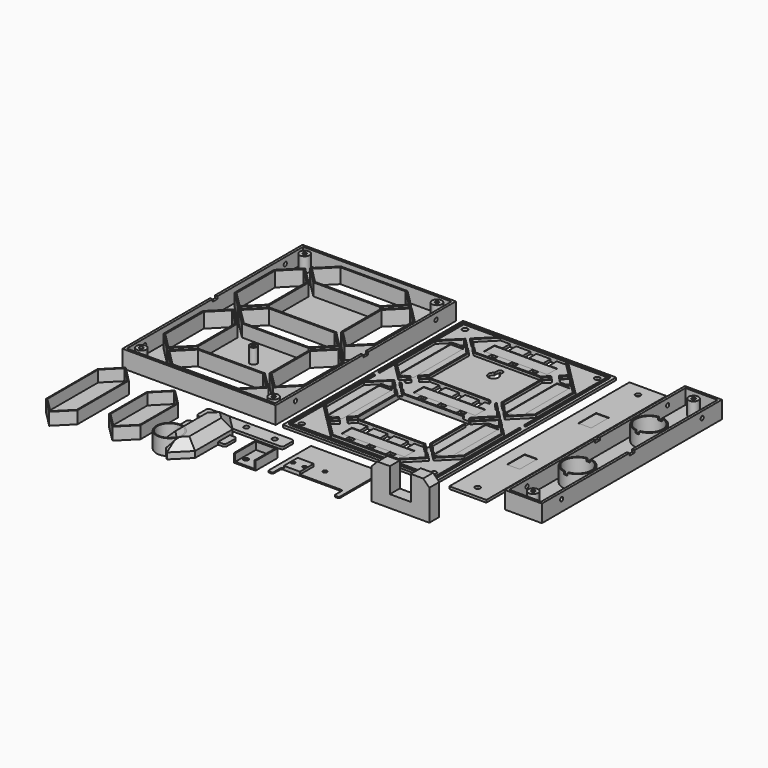
from build123d import *

# Parameters (mm, degrees)
SKETCH024_W             = 124.24
SKETCH024_H             = 182.49
PAD_DEPTH               = 2
PAD001_DEPTH            = 2
SKETCH032_R             = 1.6
POCKET009_DEPTH         = 2.001
SKETCH033_W             = 5
SKETCH033_H             = 5
POCKET010_DEPTH         = 2
SKETCH034_W             = 10.4
SKETCH034_H             = 51
SKETCH034_W_2           = 51
SKETCH034_H_2           = 10.4
SKETCH034_W_3           = 50
POCKET011_DEPTH         = 0.4
SKETCH035_R             = 6.2
POCKET012_DEPTH         = 2.001
SKETCH036_W             = 2
SKETCH036_H             = 5
SKETCH036_W_2           = 5
SKETCH036_H_2           = 28
POCKET013_DEPTH         = 2
PAD009_DEPTH            = 1
SKETCH042_W             = 5
SKETCH042_H             = 7.6
SKETCH042_H_2           = 7.599156565
SKETCH042_H_3           = 7.600006
POCKET015_DEPTH         = 2.001
SKETCH043_W             = 58.2426406871
SKETCH043_H             = 44.2426406871
POCKET016_DEPTH         = 2.001
FILLET003_R             = 1
SKETCH063_R             = 2.1
POCKET025_DEPTH         = 2.001
SKETCH026_W             = 124.24
SKETCH026_H             = 182.49
PAD003_DEPTH            = 2
PAD002_DEPTH            = 10
POCKET_DEPTH            = 2.001
POCKET001_DEPTH         = 2.001
POCKET002_DEPTH         = 2.001
POCKET003_DEPTH         = 2.001
POCKET004_DEPTH         = 2.001
POCKET005_DEPTH         = 2.001
POCKET006_DEPTH         = 2.001
SKETCH028_W             = 124.24
SKETCH028_H             = 182.49
SKETCH028_W_2           = 120.24
SKETCH028_H_2           = 178.49
PAD004_DEPTH            = 12
SKETCH029_R             = 4
SKETCH029_R_2           = 1.5
PAD005_DEPTH            = 12
SKETCH030_R             = 1.6
POCKET007_DEPTH         = 2
SKETCH031_R             = 1.6
POCKET008_DEPTH         = 2
SKETCH037_W             = 2
SKETCH037_H             = 5
POCKET014_DEPTH         = 2
SKETCH044_R             = 3
SKETCH044_R_2           = 1.5
PAD010_DEPTH            = 12
PAD007_DEPTH            = 12
CHAMFER_SIZE            = 7
THICKNESS_T             = -0.8
PAD008_DEPTH            = 10
THICKNESS001_T          = -0.8
BODY003_PLACEMENT_ANGLE = 180
COPYSKETCH045_R         = 1.6
PAD011_DEPTH            = 1
FILLET_R                = 1
FILLET001_R             = 1
FILLET002_R             = 1
SKETCH065_W             = 13
SKETCH065_H             = 14
SKETCH065_R             = 1.5
PAD021_DEPTH            = 2
SKETCH068_R             = 1.5
POCKET027_DEPTH         = 3.001
SKETCH069_W             = 5
SKETCH069_H             = 3
POCKET028_DEPTH         = 1.001
SKETCH046_W             = 30
SKETCH046_H             = 182.49
PAD013_DEPTH            = 2
SKETCH047_W             = 10.4
SKETCH047_H             = 18
POCKET017_DEPTH         = 0.4
SKETCH048_R             = 1.6
POCKET018_DEPTH         = 2.001
SKETCH064_R             = 2.1
POCKET026_DEPTH         = 2.001
SKETCH049_W             = 30
SKETCH049_H             = 182.49
PAD014_DEPTH            = 2
SKETCH050_W             = 10.4
SKETCH050_H             = 18
POCKET019_DEPTH         = 0.4
SKETCH051_W             = 30
SKETCH051_H             = 182.49
SKETCH051_W_2           = 26
SKETCH051_H_2           = 178.49
PAD015_DEPTH            = 12
SKETCH052_R             = 4
SKETCH052_R_2           = 1.5
SKETCH052_R_3           = 12
SKETCH052_R_4           = 11
PAD016_DEPTH            = 12
SKETCH054_R             = 1.6
POCKET021_DEPTH         = 30.001
SKETCH055_W             = 30
SKETCH055_H             = 5
POCKET022_DEPTH         = 2
SKETCH056_W             = 3
SKETCH056_H             = 100
POCKET023_DEPTH         = 2
SKETCH057_R             = 11
POCKET024_DEPTH         = 2.001
PAD017_DEPTH            = 10
THICKNESS002_T          = -0.8
BODY008_PLACEMENT_ANGLE = 180
SKETCH060_R             = 9.9
PAD018_DEPTH            = 12
THICKNESS003_T          = 0.8
SKETCH061_W             = 70
SKETCH061_H             = 12
SKETCH061_R             = 2
PAD019_DEPTH            = 2
FILLET004_R             = 2
SKETCH062_W             = 39.42
SKETCH062_H             = 12
SKETCH062_R             = 2
PAD020_DEPTH            = 2
FILLET005_R             = 2
SKETCH070_W             = 15.5
SKETCH070_H             = 20
PAD023_DEPTH            = 6
THICKNESS004_T          = 1
SKETCH071_R             = 1.9
POCKET029_DEPTH         = 1.001
SKETCH072_W             = 15.5
SKETCH072_H             = 6.004692
POCKET030_DEPTH         = 5
PAD024_DEPTH            = 10
CHAMFER001_SIZE         = 5


with BuildPart() as bottom:
    # Sketch024 → Pad (new body)
    with BuildSketch(Plane.XY):
        with Locations((62.12, 91.245)):
            Rectangle(SKETCH024_W, SKETCH024_H)
    extrude(amount=PAD_DEPTH)

    # Sketch025 (on Face6 of Pad) → Pad001 (join)
    with BuildSketch(Plane.XY.offset(2)):
        Polygon((5, 35.1213203436), (19, 21.1213203436), (33, 35.1213203436), (33, 75.1213203436), (19, 89.1213203436), (5, 75.1213203436), align=None)
        Polygon((6.2, 74.6242640687), (19, 87.4242640687), (31.8, 74.6242640687), (31.8, 35.6183766184), (19, 22.8183766184), (6.2, 35.6183766184), align=None, mode=Mode.SUBTRACT)
        Polygon((21.1213203436, 19), (35.1213203436, 5), (89.1213203436, 5), (103.1213203436, 19), (89.1213203436, 33), (35.1213203436, 33), align=None)
        Polygon((88.6242640687, 6.2), (101.4242640687, 19), (88.6242640687, 31.8), (35.6183766184, 31.8), (22.8183766184, 19), (35.6183766184, 6.2), align=None, mode=Mode.SUBTRACT)
        Polygon((19, 161.3639610307), (5, 147.3639610307), (5, 107.3639610307), (19, 93.3639610307), (33, 107.3639610307), (33, 147.3639610307), align=None)
        Polygon((19, 159.6669047558), (6.2, 146.8669047558), (6.2, 107.8610173055), (19, 95.0610173055), (31.8, 107.8610173055), (31.8, 146.8669047558), align=None, mode=Mode.SUBTRACT)
        Polygon((35.1213203436, 105.2426406871), (21.1213203436, 91.2426406871), (35.1213203436, 77.2426406871), (89.1213203436, 77.2426406871), (103.1213203436, 91.2426406871), (89.1213203436, 105.2426406871), align=None)
        Polygon((88.6283766184, 78.4426406871), (101.4283766184, 91.2426406871), (88.6283766184, 104.0426406871), (35.6183766184, 104.0426406871), (22.8183766184, 91.2426406871), (35.6183766184, 78.4426406871), align=None, mode=Mode.SUBTRACT)
        Polygon((35.1213203436, 149.4852813742), (89.1213203436, 149.4852813742), (103.1213203436, 163.4852813742), (89.1213203436, 177.4852813742), (35.1213203436, 177.4852813742), (21.1213203436, 163.4852813742), align=None)
        Polygon((88.6283766184, 150.6852813742), (101.4283766184, 163.4852813742), (88.6283766184, 176.2852813742), (35.6183766184, 176.2852813742), (22.8183766184, 163.4852813742), (35.6183766184, 150.6852813742), align=None, mode=Mode.SUBTRACT)
        Polygon((105.2426406871, 161.3639610307), (91.2426406871, 147.3639610307), (91.2426406871, 107.3639610307), (105.2426406871, 93.3639610307), (119.2426406871, 107.3639610307), (119.2426406871, 147.3639610307), align=None)
        Polygon((92.4426406871, 107.8569047558), (105.2426406871, 95.0569047558), (118.0426406871, 107.8569047558), (118.0426406871, 146.8669047558), (105.2426406871, 159.6669047558), (92.4426406871, 146.8669047558), align=None, mode=Mode.SUBTRACT)
        Polygon((105.2426406871, 89.1213203436), (91.2426406871, 75.1213203436), (91.2426406871, 35.1213203436), (105.2426406871, 21.1213203436), (119.2426406871, 35.1213203436), (119.2426406871, 75.1213203436), align=None)
        Polygon((92.4426406871, 35.6142640687), (105.2426406871, 22.8142640687), (118.0426406871, 35.6142640687), (118.0426406871, 74.6242640687), (105.2426406871, 87.4242640687), (92.4426406871, 74.6242640687), align=None, mode=Mode.SUBTRACT)
    extrude(amount=PAD001_DEPTH)

    # Sketch032 (on Face5 of Pad001) → Pocket009 (cut, through all)
    with BuildSketch(Plane.XY.offset(2)):
        with Locations((8.5162285705, 173.9737714295)):
            Circle(SKETCH032_R)
        with Locations((115.7311599917, 173.9811599917)):
            Circle(SKETCH032_R)
        with Locations((8.5088400083, 8.5088400083)):
            Circle(SKETCH032_R)
        with Locations((115.7311599917, 8.5088400083)):
            Circle(SKETCH032_R)
        with BuildLine():
            Line((60.02, 142.4900013773), (60.02, 139.4988113723))
            ThreePointArc((60.02, 139.4988113723), (62.1199992157, 131.877448), (64.2200013473, 139.4988105689))
            Line((64.22, 142.490005), (64.2200013473, 139.4988105689))
            ThreePointArc((64.22, 142.490005), (62.1199981887, 144.59), (60.02, 142.4900013773))
        make_face()
    extrude(amount=-POCKET009_DEPTH, mode=Mode.SUBTRACT)

    # Sketch033 (on Face63 of Pocket009) → Pocket010 (cut)
    with BuildSketch(Plane.XY.offset(4)):
        Polygon((93.2606096654, 99.4104076401), (96.7961435714, 95.8748737342), (101.0387842585, 100.1175144213), (97.5032503526, 103.6530483272), align=None)
        Polygon((109.8748737342, 82.7920310217), (113.4104076401, 79.2564971157), (117.6530483272, 83.4991378029), (114.1175144213, 87.0346717088), align=None)
        Polygon((23.633383912, 82.7931811379), (27.166616088, 79.2553469995), (31.412017054, 83.4952256108), (27.878784878, 87.0330597491), align=None)
        Polygon((23.632233047, 155.0346717088), (27.167766953, 151.4991378029), (31.4104076401, 155.74177849), (27.8748737342, 159.2773123959), align=None)
        Polygon((93.2564971157, 27.167766953), (96.7920310217, 23.632233047), (101.0346717088, 27.8748737342), (97.4991378029, 31.4104076401), align=None)
        Polygon((23.2079689783, 27.8748737342), (27.4506096654, 23.632233047), (30.9861435714, 27.167766953), (26.7435028843, 31.4104076401), align=None)
        Polygon((23.2079689783, 100.1175144213), (27.4506096654, 95.8748737342), (30.9861435714, 99.4104076401), (26.7435028843, 103.6530483272), align=None)
        Polygon((92.832233047, 155.74177849), (96.367766953, 159.2773123959), (100.6104076401, 155.0346717088), (97.0748737342, 151.4991378029), align=None)
        with Locations((22.4542196781, 91.3414798155)):
            Rectangle(SKETCH033_W, SKETCH033_H)
    extrude(amount=-POCKET010_DEPTH, mode=Mode.SUBTRACT)

    # Sketch034 (on Face165 of Pocket010) → Pocket011 (cut)
    with BuildSketch(Plane.XY.offset(2)):
        with Locations((105.2426406871, 127.3619047558)):
            Rectangle(SKETCH034_W, SKETCH034_H)
        with Locations((105.2426406871, 55.1192640687)):
            Rectangle(SKETCH034_W, SKETCH034_H)
        with Locations((19, 55.1213203436)):
            Rectangle(SKETCH034_W, SKETCH034_H)
        with Locations((19, 127.3639610307)):
            Rectangle(SKETCH034_W, SKETCH034_H)
        with Locations((62.1233766184, 163.4852813742)):
            Rectangle(SKETCH034_W_2, SKETCH034_H_2)
        with Locations((62.1233766184, 91.2426406871)):
            Rectangle(SKETCH034_W_3, SKETCH034_H_2)
        with Locations((62.1213203436, 19)):
            Rectangle(SKETCH034_W_2, SKETCH034_H_2)
    extrude(amount=-POCKET011_DEPTH, mode=Mode.SUBTRACT)

    # Sketch035 (on Face5 of Pocket011) → Pocket012 (cut, through all)
    with BuildSketch(Plane.XY.offset(2)):
        with Locations((62.12, 68.49)):
            Circle(SKETCH035_R)
    extrude(amount=-POCKET012_DEPTH, mode=Mode.SUBTRACT)

    # Sketch036 (on Face91 of Pocket012) → Pocket013 (cut)
    with BuildSketch(Plane.XY.offset(4)):
        with Locations((91.4426406871, 72.1242640687)):
            Rectangle(SKETCH036_W, SKETCH036_H)
        with Locations((86.6213203436, 91.2426406871)):
            Rectangle(SKETCH036_W_2, SKETCH036_H_2)
    extrude(amount=-POCKET013_DEPTH, mode=Mode.SUBTRACT)

    # Sketch041 (on Face5 of Pocket013) → Pad009 (join)
    with BuildSketch(Plane.XY.offset(2)):
        Polygon((2.5, 179.99), (121.74, 179.99), (121.74, 93.8414798155), (120.74, 93.8414798155), (120.74, 178.99), (3.5, 178.99), (3.5, 93.8414798155), (2.5, 93.8414798155), align=None)
        Polygon((121.74, 2.5), (2.5, 2.5), (2.5, 88.8414798155), (3.5, 88.8414798155), (3.5, 3.5), (120.74, 3.5), (120.74, 88.8414798155), (121.74, 88.8414798155), align=None)
    extrude(amount=PAD009_DEPTH)

    # Sketch042 (on Face187 of Pad009) → Pocket015 (cut, through all)
    with BuildSketch(Plane.XY.offset(2)):
        Polygon((19, 159.6669047558), (23.632233047, 155.0346717088), (14.367766953, 155.0346717088), align=None)
        Polygon((23.6315494168, 82.7927146519), (14.3684505832, 82.7927146519), (19, 87.4242640687), align=None)
        Polygon((109.8748737342, 82.7920310217), (100.6104076401, 82.7920310217), (105.2426406871, 87.4242640687), align=None)
        Polygon((109.8748737341, 155.0346717088), (100.6104076401, 155.0346717088), (105.2426406871, 159.6669047558), align=None)
        with Locations((45.6233766184, 172.4852813742)):
            Rectangle(SKETCH042_W, SKETCH042_H)
        with Locations((78.6233766184, 172.4852813742)):
            Rectangle(SKETCH042_W, SKETCH042_H)
        with Locations((62.1233766184, 172.4852813742)):
            Rectangle(SKETCH042_W, SKETCH042_H)
        with Locations((78.1233766184, 100.2426406871)):
            Rectangle(SKETCH042_W, SKETCH042_H)
        with Locations((62.1233766184, 100.2426406871)):
            Rectangle(SKETCH042_W, SKETCH042_H)
        with Locations((46.1233766184, 100.2426406871)):
            Rectangle(SKETCH042_W, SKETCH042_H)
        with Locations((78.6213203436, 28)):
            Rectangle(SKETCH042_W, SKETCH042_H)
        with Locations((62.1213203436, 28)):
            Rectangle(SKETCH042_W, SKETCH042_H)
        with Locations((45.6213203436, 28)):
            Rectangle(SKETCH042_W, SKETCH042_H)
        with Locations((78.6213203436, 10.0004217175)):
            Rectangle(SKETCH042_W, SKETCH042_H_2)
        with Locations((62.1213203436, 10.0004217175)):
            Rectangle(SKETCH042_W, SKETCH042_H_2)
        with Locations((45.6213203436, 10.0004217175)):
            Rectangle(SKETCH042_W, SKETCH042_H_2)
        with Locations((45.6233746184, 154.4852873742)):
            Rectangle(SKETCH042_W, SKETCH042_H)
        with Locations((78.6233746184, 154.4852873742)):
            Rectangle(SKETCH042_W, SKETCH042_H)
        with Locations((62.1233766184, 154.4852843742)):
            Rectangle(SKETCH042_W, SKETCH042_H_3)
        with Locations((78.1233746184, 82.2426426871)):
            Rectangle(SKETCH042_W, SKETCH042_H)
        with Locations((62.1233766184, 82.2426406871)):
            Rectangle(SKETCH042_W, SKETCH042_H)
        with Locations((46.1233746184, 82.2426426871)):
            Rectangle(SKETCH042_W, SKETCH042_H)
        Polygon((19, 95.0610173055), (23.632233047, 99.6932503526), (14.367766953, 99.6932503526), align=None)
        Polygon((109.8748737341, 99.6932503526), (100.6104076401, 99.6932503526), (105.2426406871, 95.0610173055), align=None)
        Polygon((23.6315494168, 27.4499260352), (14.3684505832, 27.4499260352), (19, 22.8183766184), align=None)
        Polygon((109.8748737342, 27.4506096654), (100.6104076401, 27.4506096654), (105.2426406871, 22.8183766184), align=None)
    extrude(amount=-POCKET015_DEPTH, mode=Mode.SUBTRACT)

    # Sketch043 → Pocket016 (cut, through all)
    with BuildSketch(Plane.XY.offset(2)):
        with Locations((62.1213203436, 55.1213203436)):
            Rectangle(SKETCH043_W, SKETCH043_H)
    extrude(amount=-POCKET016_DEPTH, mode=Mode.SUBTRACT)

    # Fillet003
    fillet003_edges = [bottom.edges().sort_by_distance(p)[0] for p in [
        (121.74, 2.5, 2.5),
        (2.5, 2.5, 2.5),
        (2.5, 179.99, 2.5),
        (121.74, 179.99, 2.5),
    ]]
    fillet(fillet003_edges, radius=FILLET003_R)

    # Sketch063 (on Face1 of Fillet003) → Pocket025 (cut, through all)
    with BuildSketch(Plane.XY.offset(2)):
        with Locations((8.5162285705, 173.9737714295)):
            Circle(SKETCH063_R)
        with Locations((115.7311599917, 173.9811599917)):
            Circle(SKETCH063_R)
        with Locations((115.7311599917, 8.5088400083)):
            Circle(SKETCH063_R)
        with Locations((8.5088400083, 8.5088400083)):
            Circle(SKETCH063_R)
    extrude(amount=-POCKET025_DEPTH, mode=Mode.SUBTRACT)


with BuildPart() as top:
    # Sketch026 → Pad003 (new body)
    with BuildSketch(Plane.XY):
        with Locations((62.12, 91.245)):
            Rectangle(SKETCH026_W, SKETCH026_H)
    extrude(amount=PAD003_DEPTH)

    # Sketch027 (on Face6 of Pad003) → Pad002 (join)
    with BuildSketch(Plane.XY.offset(2)):
        Polygon((5, 35.1213203436), (19, 21.1213203436), (33, 35.1213203436), (33, 75.1213203436), (19, 89.1213203436), (5, 75.1213203436), align=None)
        Polygon((6.2, 74.6242640687), (19, 87.4242640687), (31.8, 74.6242640687), (31.8, 35.6183766184), (19, 22.8183766184), (6.2, 35.6183766184), align=None, mode=Mode.SUBTRACT)
        Polygon((21.1213203436, 19), (35.1213203436, 5), (89.1213203436, 5), (103.1213203436, 19), (89.1213203436, 33), (35.1213203436, 33), align=None)
        Polygon((88.6242640687, 6.2), (101.4242640687, 19), (88.6242640687, 31.8), (35.6183766184, 31.8), (22.8183766184, 19), (35.6183766184, 6.2), align=None, mode=Mode.SUBTRACT)
        Polygon((19, 161.3639610307), (5, 147.3639610307), (5, 107.3639610307), (19, 93.3639610307), (33, 107.3639610307), (33, 147.3639610307), align=None)
        Polygon((19, 159.6669047558), (6.2, 146.8669047558), (6.2, 107.8610173055), (19, 95.0610173055), (31.8, 107.8610173055), (31.8, 146.8669047558), align=None, mode=Mode.SUBTRACT)
        Polygon((35.1213203436, 105.2426406871), (21.1213203436, 91.2426406871), (35.1213203436, 77.2426406871), (89.1213203436, 77.2426406871), (103.1213203436, 91.2426406871), (89.1213203436, 105.2426406871), align=None)
        Polygon((88.6283766184, 78.4426406871), (101.4283766184, 91.2426406871), (88.6283766184, 104.0426406871), (35.6183766184, 104.0426406871), (22.8183766184, 91.2426406871), (35.6183766184, 78.4426406871), align=None, mode=Mode.SUBTRACT)
        Polygon((35.1213203436, 149.4852813742), (89.1213203436, 149.4852813742), (103.1213203436, 163.4852813742), (89.1213203436, 177.4852813742), (35.1213203436, 177.4852813742), (21.1213203436, 163.4852813742), align=None)
        Polygon((88.6283766184, 150.6852813742), (101.4283766184, 163.4852813742), (88.6283766184, 176.2852813742), (35.6183766184, 176.2852813742), (22.8183766184, 163.4852813742), (35.6183766184, 150.6852813742), align=None, mode=Mode.SUBTRACT)
        Polygon((105.2426406871, 161.3639610307), (91.2426406871, 147.3639610307), (91.2426406871, 107.3639610307), (105.2426406871, 93.3639610307), (119.2426406871, 107.3639610307), (119.2426406871, 147.3639610307), align=None)
        Polygon((92.4426406871, 107.8569047558), (105.2426406871, 95.0569047558), (118.0426406871, 107.8569047558), (118.0426406871, 146.8669047558), (105.2426406871, 159.6669047558), (92.4426406871, 146.8669047558), align=None, mode=Mode.SUBTRACT)
        Polygon((105.2426406871, 89.1213203436), (91.2426406871, 75.1213203436), (91.2426406871, 35.1213203436), (105.2426406871, 21.1213203436), (119.2426406871, 35.1213203436), (119.2426406871, 75.1213203436), align=None)
        Polygon((92.4426406871, 35.6142640687), (105.2426406871, 22.8142640687), (118.0426406871, 35.6142640687), (118.0426406871, 74.6242640687), (105.2426406871, 87.4242640687), (92.4426406871, 74.6242640687), align=None, mode=Mode.SUBTRACT)
    extrude(amount=PAD002_DEPTH)

    # Pad002 Face102 → Pocket (cut, through all)
    with BuildSketch(Plane(origin=(62.1213203436, 19, 2), x_dir=(0, 1, 0), z_dir=(0, 0, 1))):
        Polygon((0, 39.3029437252), (-12.8, 26.5029437252), (-12.8, -26.5029437252), (0, -39.3029437252), (12.8, -26.5029437252), (12.8, 26.5029437252), align=None)
    extrude(amount=-POCKET_DEPTH, mode=Mode.SUBTRACT)

    # Pocket Face109 → Pocket001 (cut, through all)
    with BuildSketch(Plane(origin=(19, 55.1213203436, 2), x_dir=(0, 1, 0), z_dir=(0, 0, 1))):
        Polygon((32.3029437252, 0), (19.5029437252, 12.8), (-19.5029437252, 12.8), (-32.3029437252, 0), (-19.5029437252, -12.8), (19.5029437252, -12.8), align=None)
    extrude(amount=-POCKET001_DEPTH, mode=Mode.SUBTRACT)

    # Pocket001 Face111 → Pocket002 (cut, through all)
    with BuildSketch(Plane(origin=(62.1233766184, 91.2426406871, 2), x_dir=(0, 1, 0), z_dir=(0, 0, 1))):
        Polygon((0, 39.305), (-12.8, 26.505), (-12.8, -26.505), (0, -39.305), (12.8, -26.505), (12.8, 26.505), align=None)
    extrude(amount=-POCKET002_DEPTH, mode=Mode.SUBTRACT)

    # Pocket002 Face119 → Pocket003 (cut, through all)
    with BuildSketch(Plane(origin=(105.2426406871, 55.1192640687, 2), x_dir=(0, 1, 0), z_dir=(0, 0, 1))):
        Polygon((-19.505, -12.8), (19.505, -12.8), (32.305, 0), (19.505, 12.8), (-19.505, 12.8), (-32.305, 0), align=None)
    extrude(amount=-POCKET003_DEPTH, mode=Mode.SUBTRACT)

    # Pocket003 Face122 → Pocket004 (cut, through all)
    with BuildSketch(Plane(origin=(105.2426406871, 127.3619047558, 2), x_dir=(0, 1, 0), z_dir=(0, 0, 1))):
        Polygon((-19.505, -12.8), (19.505, -12.8), (32.305, 0), (19.505, 12.8), (-19.505, 12.8), (-32.305, 0), align=None)
    extrude(amount=-POCKET004_DEPTH, mode=Mode.SUBTRACT)

    # Pocket004 Face129 → Pocket005 (cut, through all)
    with BuildSketch(Plane(origin=(62.1233766184, 163.4852813742, 2), x_dir=(0, 1, 0), z_dir=(0, 0, 1))):
        Polygon((0, 39.305), (-12.8, 26.505), (-12.8, -26.505), (0, -39.305), (12.8, -26.505), (12.8, 26.505), align=None)
    extrude(amount=-POCKET005_DEPTH, mode=Mode.SUBTRACT)

    # Pocket005 Face134 → Pocket006 (cut, through all)
    with BuildSketch(Plane(origin=(19, 127.3639610307, 2), x_dir=(0, 1, 0), z_dir=(0, 0, 1))):
        Polygon((-19.5029437252, -12.8), (19.5029437252, -12.8), (32.3029437252, 0), (19.5029437252, 12.8), (-19.5029437252, 12.8), (-32.3029437252, 0), align=None)
    extrude(amount=-POCKET006_DEPTH, mode=Mode.SUBTRACT)

    # Sketch028 (on Face5 of Pocket006) → Pad004 (join)
    with BuildSketch(Plane.XY.offset(2)):
        with Locations((62.12, 91.245)):
            Rectangle(SKETCH028_W, SKETCH028_H)
        with Locations((62.12, 91.245)):
            Rectangle(SKETCH028_W_2, SKETCH028_H_2, mode=Mode.SUBTRACT)
    extrude(amount=PAD004_DEPTH)

    # Sketch029 (on Face106 of Pad004) → Pad005 (join)
    with BuildSketch(Plane.XY.offset(2)):
        with Locations((8.4852813742, 174.0047186258)):
            Circle(SKETCH029_R)
        with Locations((8.4852813742, 174.0047186258)):
            Circle(SKETCH029_R_2, mode=Mode.SUBTRACT)
        with Locations((115.7547186258, 174.0047186258)):
            Circle(SKETCH029_R)
        with Locations((115.7547186258, 174.0047186258)):
            Circle(SKETCH029_R_2, mode=Mode.SUBTRACT)
        with Locations((8.4852813742, 8.4852813742)):
            Circle(SKETCH029_R)
        with Locations((8.4852813742, 8.4852813742)):
            Circle(SKETCH029_R_2, mode=Mode.SUBTRACT)
        with Locations((115.7547186258, 8.4852813742)):
            Circle(SKETCH029_R)
        with Locations((115.7547186258, 8.4852813742)):
            Circle(SKETCH029_R_2, mode=Mode.SUBTRACT)
    extrude(amount=PAD005_DEPTH)

    # Sketch030 (on Face8 of Pad005) → Pocket007 (cut)
    with BuildSketch(Plane.YZ.offset(124.24)):
        with Locations((20, 9)):
            Circle(SKETCH030_R)
        with Locations((162.49, 9)):
            Circle(SKETCH030_R)
    extrude(amount=-POCKET007_DEPTH, mode=Mode.SUBTRACT)

    # Sketch031 (on Face7 of Pocket007) → Pocket008 (cut)
    with BuildSketch(Plane(origin=(0, 0, 0), x_dir=(0, -1, 0), z_dir=(-1, 0, 0))):
        with Locations((-162.49, 9)):
            Circle(SKETCH031_R)
        with Locations((-20, 9)):
            Circle(SKETCH031_R)
    extrude(amount=-POCKET008_DEPTH, mode=Mode.SUBTRACT)

    # Sketch037 (on Face51 of Pocket008) → Pocket014 (cut)
    with BuildSketch(Plane.XY.offset(14)):
        with Locations((123.24, 91.245)):
            Rectangle(SKETCH037_W, SKETCH037_H)
        with Locations((1, 91.245)):
            Rectangle(SKETCH037_W, SKETCH037_H)
    extrude(amount=-POCKET014_DEPTH, mode=Mode.SUBTRACT)

    # Sketch044 (on Face117 of Pocket014) → Pad010 (join)
    with BuildSketch(Plane.XY.offset(2)):
        with Locations((62.1213203436, 55.1213203436)):
            Circle(SKETCH044_R)
        with Locations((62.1213203436, 55.1213203436)):
            Circle(SKETCH044_R_2, mode=Mode.SUBTRACT)
    extrude(amount=PAD010_DEPTH)


with BuildPart() as top_1:
    # Body001 placement: moved
    add(top.part.moved(Location((-130, 0, 0))))


with BuildPart() as obj1:
    # Sketch039 → Pad007 (new body)
    with BuildSketch(Plane.XY):
        Polygon((0, 0), (12.7, 12.7), (12.7, 50.8), (0, 63.5), (-12.7, 50.8), (-12.7, 12.7), align=None)
    extrude(amount=PAD007_DEPTH)

    # Chamfer
    chamfer_edges = [obj1.edges().sort_by_distance(p)[0] for p in [
        (12.7, 31.75, 12),
        (6.35, 6.35, 12),
        (-6.35, 6.35, 12),
        (-12.7, 31.75, 12),
        (-6.35, 57.15, 12),
        (6.35, 57.15, 12),
    ]]
    chamfer(chamfer_edges, length=CHAMFER_SIZE)

    # Thickness
    thickness_openings = [obj1.faces().sort_by_distance(p)[0] for p in [
        (0, 31.75, 0),
    ]]
    offset(amount=THICKNESS_T, openings=thickness_openings)


with BuildPart() as obj1_1:
    # Body002 placement: moved
    add(obj1.part.moved(Location((-30, -80, 0))))


with BuildPart() as segment_vert_flat:
    # Sketch040 → Pad008 (new body)
    with BuildSketch(Plane.XY):
        Polygon((0, 0), (12.7, 12.7), (12.7, 50.8), (0, 63.5), (-12.7, 50.8), (-12.7, 12.7), align=None)
    extrude(amount=PAD008_DEPTH)

    # Thickness001
    thickness001_openings = [segment_vert_flat.faces().sort_by_distance(p)[0] for p in [
        (0, 31.75, 0),
    ]]
    offset(amount=THICKNESS001_T, openings=thickness001_openings, kind=Kind.INTERSECTION)


with BuildPart() as segment_vert_flat_1:
    # Body003 placement: moved
    add(segment_vert_flat.part.moved(Location((-73, -18, 10))).rotate(Axis((-73, -18, 10), (1, 0, 0)), BODY003_PLACEMENT_ANGLE))


with BuildPart() as backlid:
    # CopySketch045 → Pad011 (new body)
    with BuildSketch(Plane.XY.offset(2)):
        Polygon((33.25, 76.9926406871), (90.9926406871, 76.9926406871), (90.9926406871, 33.25), (86.9926406871, 33.25), (86.9926406871, 41.99), (37.25, 41.99), (37.25, 33.25), (33.25, 33.25), align=None)
        with Locations((62.1213203436, 55.1213203436)):
            Circle(COPYSKETCH045_R, mode=Mode.SUBTRACT)
    extrude(amount=PAD011_DEPTH)

    # Fillet
    fillet_edges = [backlid.edges().sort_by_distance(p)[0] for p in [
        (90.992641, 33.25, 2.5),
        (33.25, 33.25, 2.5),
        (33.25, 76.992641, 2.5),
        (90.992641, 76.992641, 2.5),
    ]]
    fillet(fillet_edges, radius=FILLET_R)

    # Fillet001
    fillet001_edges = [backlid.edges().sort_by_distance(p)[0] for p in [
        (86.992641, 41.99, 2.5),
        (37.25, 41.99, 2.5),
    ]]
    fillet(fillet001_edges, radius=FILLET001_R)

    # Fillet002
    fillet002_edges = [backlid.edges().sort_by_distance(p)[0] for p in [
        (86.992641, 33.25, 2.5),
        (37.25, 33.25, 2.5),
    ]]
    fillet(fillet002_edges, radius=FILLET002_R)

    # Sketch065 (on Face19 of Fillet002) → Pad021 (join)
    with BuildSketch(Plane.XY.offset(3)):
        with Locations((45.75, 48.99)):
            Rectangle(SKETCH065_W, SKETCH065_H)
        with Locations((41.15, 48.99)):
            Circle(SKETCH065_R, mode=Mode.SUBTRACT)
        with Locations((50.35, 48.99)):
            Circle(SKETCH065_R, mode=Mode.SUBTRACT)
    extrude(amount=PAD021_DEPTH)

    # Sketch068 (on Face24 of Pad021) → Pocket027 (cut, through all)
    with BuildSketch(Plane.XY.offset(5)):
        with Locations((50.35, 48.99)):
            Circle(SKETCH068_R)
        with Locations((41.15, 48.99)):
            Circle(SKETCH068_R)
    extrude(amount=-POCKET027_DEPTH, mode=Mode.SUBTRACT)

    # Sketch069 (on Face21 of Pocket027) → Pocket028 (cut, through all)
    with BuildSketch(Plane.XY.offset(3)):
        with Locations((45.75, 57.49)):
            Rectangle(SKETCH069_W, SKETCH069_H)
    extrude(amount=-POCKET028_DEPTH, mode=Mode.SUBTRACT)


with BuildPart() as backlid_1:
    # Body004 placement: moved
    add(backlid.part.moved(Location((0, -90, 0))))


with BuildPart() as middlebottom:
    # Sketch046 → Pad013 (new body)
    with BuildSketch(Plane.XY):
        with Locations((15, 91.245)):
            Rectangle(SKETCH046_W, SKETCH046_H)
    extrude(amount=PAD013_DEPTH)

    # Sketch047 (on Face6 of Pad013) → Pocket017 (cut)
    with BuildSketch(Plane.XY.offset(2)):
        with Locations((15, 127.49)):
            Rectangle(SKETCH047_W, SKETCH047_H)
        with Locations((15, 55)):
            Rectangle(SKETCH047_W, SKETCH047_H)
    extrude(amount=-POCKET017_DEPTH, mode=Mode.SUBTRACT)

    # Sketch048 (on Face5 of Pocket017) → Pocket018 (cut, through all)
    with BuildSketch(Plane.XY.offset(2)):
        with Locations((15, 172.49)):
            Circle(SKETCH048_R)
        with Locations((15, 10)):
            Circle(SKETCH048_R)
    extrude(amount=-POCKET018_DEPTH, mode=Mode.SUBTRACT)

    # Sketch064 (on Face5 of Pocket018) → Pocket026 (cut, through all)
    with BuildSketch(Plane.XY.offset(2)):
        with Locations((15, 172.49)):
            Circle(SKETCH064_R)
        with Locations((15, 10)):
            Circle(SKETCH064_R)
    extrude(amount=-POCKET026_DEPTH, mode=Mode.SUBTRACT)


with BuildPart() as middlebottom_1:
    # Body006 placement: moved
    add(middlebottom.part.moved(Location((135, 0, 0))))


with BuildPart() as middletop:
    # Sketch049 → Pad014 (new body)
    with BuildSketch(Plane.XY):
        with Locations((15, 91.245)):
            Rectangle(SKETCH049_W, SKETCH049_H)
    extrude(amount=PAD014_DEPTH)

    # Sketch050 (on Face6 of Pad014) → Pocket019 (cut)
    with BuildSketch(Plane.XY.offset(2)):
        with Locations((15, 127.49)):
            Rectangle(SKETCH050_W, SKETCH050_H)
        with Locations((15, 55)):
            Rectangle(SKETCH050_W, SKETCH050_H)
    extrude(amount=-POCKET019_DEPTH, mode=Mode.SUBTRACT)

    # Sketch051 (on Face5 of Pocket019) → Pad015 (join)
    with BuildSketch(Plane.XY.offset(2)):
        with Locations((15, 91.245)):
            Rectangle(SKETCH051_W, SKETCH051_H)
        with Locations((15, 91.245)):
            Rectangle(SKETCH051_W_2, SKETCH051_H_2, mode=Mode.SUBTRACT)
    extrude(amount=PAD015_DEPTH)

    # Sketch052 (on Face15 of Pad015) → Pad016 (join)
    with BuildSketch(Plane.XY.offset(2)):
        with Locations((15, 172.49)):
            Circle(SKETCH052_R)
        with Locations((15, 172.49)):
            Circle(SKETCH052_R_2, mode=Mode.SUBTRACT)
        with Locations((15, 10)):
            Circle(SKETCH052_R)
        with Locations((15, 10)):
            Circle(SKETCH052_R_2, mode=Mode.SUBTRACT)
        with Locations((15, 127.49)):
            Circle(SKETCH052_R_3)
        with Locations((15, 127.49)):
            Circle(SKETCH052_R_4, mode=Mode.SUBTRACT)
        with Locations((15, 55)):
            Circle(SKETCH052_R_3)
        with Locations((15, 55)):
            Circle(SKETCH052_R_4, mode=Mode.SUBTRACT)
    extrude(amount=PAD016_DEPTH)

    # Sketch054 → Pocket021 (cut, through all)
    with BuildSketch(Plane.YZ.offset(30)):
        with Locations((20, 9)):
            Circle(SKETCH054_R)
        with Locations((162.49, 9)):
            Circle(SKETCH054_R)
    extrude(amount=-POCKET021_DEPTH, mode=Mode.SUBTRACT)

    # Sketch055 (on Face9 of Pocket021) → Pocket022 (cut)
    with BuildSketch(Plane.XY.offset(14)):
        with Locations((15, 91.245)):
            Rectangle(SKETCH055_W, SKETCH055_H)
    extrude(amount=-POCKET022_DEPTH, mode=Mode.SUBTRACT)

    # Sketch056 (on Face31 of Pocket022) → Pocket023 (cut)
    with BuildSketch(Plane.XY.offset(14)):
        with Locations((15, 90.9322684418)):
            Rectangle(SKETCH056_W, SKETCH056_H)
    extrude(amount=-POCKET023_DEPTH, mode=Mode.SUBTRACT)

    # Sketch057 (on Face26 of Pocket023) → Pocket024 (cut, through all)
    with BuildSketch(Plane.XY.offset(2)):
        with Locations((15, 127.49)):
            Circle(SKETCH057_R)
        with Locations((15, 55)):
            Circle(SKETCH057_R)
    extrude(amount=-POCKET024_DEPTH, mode=Mode.SUBTRACT)


with BuildPart() as middletop_1:
    # Body007 placement: moved
    add(middletop.part.moved(Location((180, 0, 0))))


with BuildPart() as segment_hor_flat:
    # Sketch058 → Pad017 (new body)
    with BuildSketch(Plane.XY):
        Polygon((0, 0), (12.7, 12.7), (12.7, 64.8), (0, 77.5), (-12.7, 64.8), (-12.7, 12.7), align=None)
    extrude(amount=PAD017_DEPTH)

    # Thickness002
    thickness002_openings = [segment_hor_flat.faces().sort_by_distance(p)[0] for p in [
        (0, 38.75, 0),
    ]]
    offset(amount=THICKNESS002_T, openings=thickness002_openings, kind=Kind.INTERSECTION)


with BuildPart() as segment_hor_flat_1:
    # Body008 placement: moved
    add(segment_hor_flat.part.moved(Location((-117, -13, 10))).rotate(Axis((-117, -13, 10), (1, 0, 0)), BODY008_PLACEMENT_ANGLE))


with BuildPart() as dot:
    # Sketch060 → Pad018 (new body)
    with BuildSketch(Plane.XY):
        Circle(SKETCH060_R)
    extrude(amount=PAD018_DEPTH)

    # Thickness003
    thickness003_openings = [dot.faces().sort_by_distance(p)[0] for p in [
        (0, 0, 12),
    ]]
    offset(amount=THICKNESS003_T, openings=thickness003_openings, kind=Kind.INTERSECTION)


with BuildPart() as dot_1:
    # Body009 placement: moved
    add(dot.part.moved(Location((-39, -66, 0))))


with BuildPart() as attach_large:
    # Sketch061 → Pad019 (new body)
    with BuildSketch(Plane.XY):
        with Locations((35, 6)):
            Rectangle(SKETCH061_W, SKETCH061_H)
        with Locations((10.71, 5.49)):
            Circle(SKETCH061_R, mode=Mode.SUBTRACT)
        with Locations((35, 7)):
            Circle(SKETCH061_R, mode=Mode.SUBTRACT)
        with Locations((59.29, 5.49)):
            Circle(SKETCH061_R, mode=Mode.SUBTRACT)
    extrude(amount=PAD019_DEPTH)

    # Fillet004
    fillet004_edges = [attach_large.edges().sort_by_distance(p)[0] for p in [
        (0, 12, 1),
        (0, 0, 1),
        (70, 12, 1),
        (70, 0, 1),
    ]]
    fillet(fillet004_edges, radius=FILLET004_R)


with BuildPart() as attach_large_1:
    # Body010 placement: moved
    add(attach_large.part.moved(Location((-51, -24, 0))))


with BuildPart() as attach_small:
    # Sketch062 → Pad020 (new body)
    with BuildSketch(Plane.XY):
        with Locations((19.71, 6)):
            Rectangle(SKETCH062_W, SKETCH062_H)
        with Locations((10.71, 5.49)):
            Circle(SKETCH062_R, mode=Mode.SUBTRACT)
        with Locations((28.71, 5.49)):
            Circle(SKETCH062_R, mode=Mode.SUBTRACT)
    extrude(amount=PAD020_DEPTH)

    # Fillet005
    fillet005_edges = [attach_small.edges().sort_by_distance(p)[0] for p in [
        (39.42, 0, 1),
        (39.42, 12, 1),
        (0, 0, 1),
        (0, 12, 1),
    ]]
    fillet(fillet005_edges, radius=FILLET005_R)


with BuildPart() as attach_small_1:
    # Body011 placement: moved
    add(attach_small.part.moved(Location((-51, -44, 0))))


with BuildPart() as usb_cap:
    # Sketch070 → Pad023 (new body)
    with BuildSketch(Plane.XY):
        with Locations((7.75, 10)):
            Rectangle(SKETCH070_W, SKETCH070_H)
    extrude(amount=PAD023_DEPTH)

    # Thickness004
    thickness004_openings = [usb_cap.faces().sort_by_distance(p)[0] for p in [
        (7.75, 10, 6),
    ]]
    offset(amount=THICKNESS004_T, openings=thickness004_openings, kind=Kind.INTERSECTION)

    # Sketch071 (on Face5 of Thickness004) → Pocket029 (cut, through all)
    with BuildSketch(Plane.XY):
        with Locations((3.147495, 6.000042)):
            Circle(SKETCH071_R)
        with Locations((12.346691, 5.941261)):
            Circle(SKETCH071_R)
    extrude(amount=-POCKET029_DEPTH, mode=Mode.SUBTRACT)

    # Sketch072 (on Face1 of Pocket029) → Pocket030 (cut)
    with BuildSketch(Plane(origin=(0, 0, 0), x_dir=(-1, 0, 0), z_dir=(0, 1, 0))):
        with Locations((-7.75, 2.997654)):
            Rectangle(SKETCH072_W, SKETCH072_H)
    extrude(amount=-POCKET030_DEPTH, mode=Mode.SUBTRACT)


with BuildPart() as usb_cap_1:
    # Body013 placement: moved
    add(usb_cap.part.moved(Location((7, -56, 1))))


with BuildPart() as stand:
    # Sketch073 → Pad024 (new body)
    with BuildSketch(Plane.XZ):
        Polygon((0, 0), (47, 0), (47, 30), (32, 30), (32, 10), (15, 10), (15, 30), (0, 30), align=None)
    extrude(amount=PAD024_DEPTH)

    # Chamfer001
    chamfer001_edges = [stand.edges().sort_by_distance(p)[0] for p in [
        (0, -5, 30),
        (47, -5, 30),
    ]]
    chamfer(chamfer001_edges, length=CHAMFER001_SIZE)


with BuildPart() as stand_1:
    # Body014 placement: moved
    add(stand.part.moved(Location((107, -34, 0))))


solid = Compound([bottom.part, top_1.part, obj1_1.part, segment_vert_flat_1.part, backlid_1.part, middlebottom_1.part, middletop_1.part, segment_hor_flat_1.part, dot_1.part, attach_large_1.part, attach_small_1.part, usb_cap_1.part, stand_1.part])
